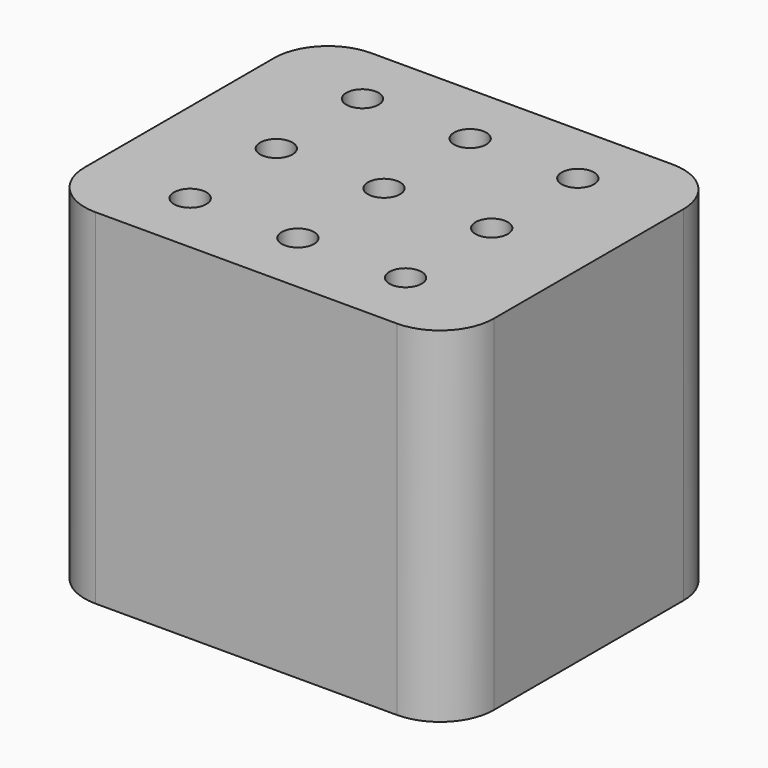
from build123d import *

# Parameters (mm, degrees)
CYLINDER011_R     = 1.5
CYLINDER011_DEPTH = 27
ARRAY004_X_COUNT  = 2
ARRAY004_X_PITCH  = 30
ARRAY004_Y_COUNT  = 2
ARRAY004_Y_PITCH  = 23.5
ARRAY003_X_COUNT  = 3
ARRAY003_X_PITCH  = 10
ARRAY003_Y_COUNT  = 3
ARRAY003_Y_PITCH  = 10
BOX008_W          = 38
BOX008_H          = 32
BOX008_DEPTH      = 32
FILLET005_R       = 5


with BuildPart() as coaster_screw_hole:
    # Cylinder011 → Cylinder011 (new body)
    with BuildSketch(Plane.XY):
        Circle(CYLINDER011_R)
    extrude(amount=CYLINDER011_DEPTH)


with BuildPart() as coaster_holder_bottom_hole_array:
    # Array004 base: copy of coaster screw hole
    add(coaster_screw_hole.part)

    # Array004 X: coaster holder bottom hole array ×2


with BuildPart() as coaster_holder_bottom_hole_array_1:
    add(coaster_holder_bottom_hole_array.part)
    with Locations(*[(i * ARRAY004_X_PITCH, 0, 0) for i in range(1, ARRAY004_X_COUNT)]):
        add(coaster_holder_bottom_hole_array.part)

    # Array004 Y: coaster holder bottom hole array ×2


with BuildPart() as coaster_holder_bottom_hole_array_2:
    add(coaster_holder_bottom_hole_array_1.part)
    with Locations(*[(0, i * ARRAY004_Y_PITCH, 0) for i in range(1, ARRAY004_Y_COUNT)]):
        add(coaster_holder_bottom_hole_array_1.part)


with BuildPart() as coaster_holder_bottom_hole_array_3:
    # Array004 placement: moved
    add(coaster_holder_bottom_hole_array_2.part.moved(Location((-15, -11.75, 0))))


with BuildPart() as coaster_hole_fusion:
    # Array003 base: copy of coaster screw hole
    add(coaster_screw_hole.part)

    # Array003 X: coaster hole fusion ×3


with BuildPart() as coaster_hole_fusion_1:
    add(coaster_hole_fusion.part)
    with Locations(*[(i * ARRAY003_X_PITCH, 0, 0) for i in range(1, ARRAY003_X_COUNT)]):
        add(coaster_hole_fusion.part)

    # Array003 Y: coaster hole fusion ×3


with BuildPart() as coaster_hole_fusion_2:
    add(coaster_hole_fusion_1.part)
    with Locations(*[(0, i * ARRAY003_Y_PITCH, 0) for i in range(1, ARRAY003_Y_COUNT)]):
        add(coaster_hole_fusion_1.part)


with BuildPart() as coaster_hole_fusion_3:
    # Array003 placement: moved
    add(coaster_hole_fusion_2.part.moved(Location((-10, -10, 16))))

    # Fusion011: union coaster holder bottom hole array
    add(coaster_holder_bottom_hole_array_3.part)


with BuildPart() as coaster_holder_cut:
    # Box008 → Box008 (new body)
    with BuildSketch(Plane(origin=(-19, -16, 0), x_dir=(1, 0, 0), z_dir=(0, 0, 1))):
        with Locations((19, 16)):
            Rectangle(BOX008_W, BOX008_H)
    extrude(amount=BOX008_DEPTH)

    # Fillet005
    fillet005_edges = [coaster_holder_cut.edges().sort_by_distance(p)[0] for p in [
        (-19, -16, 16),
        (-19, 16, 16),
        (19, -16, 16),
        (19, 16, 16),
    ]]
    fillet(fillet005_edges, radius=FILLET005_R)

    # Cut004004: cut coaster hole fusion
    add(coaster_hole_fusion_3.part, mode=Mode.SUBTRACT)


solid = coaster_holder_cut.part
